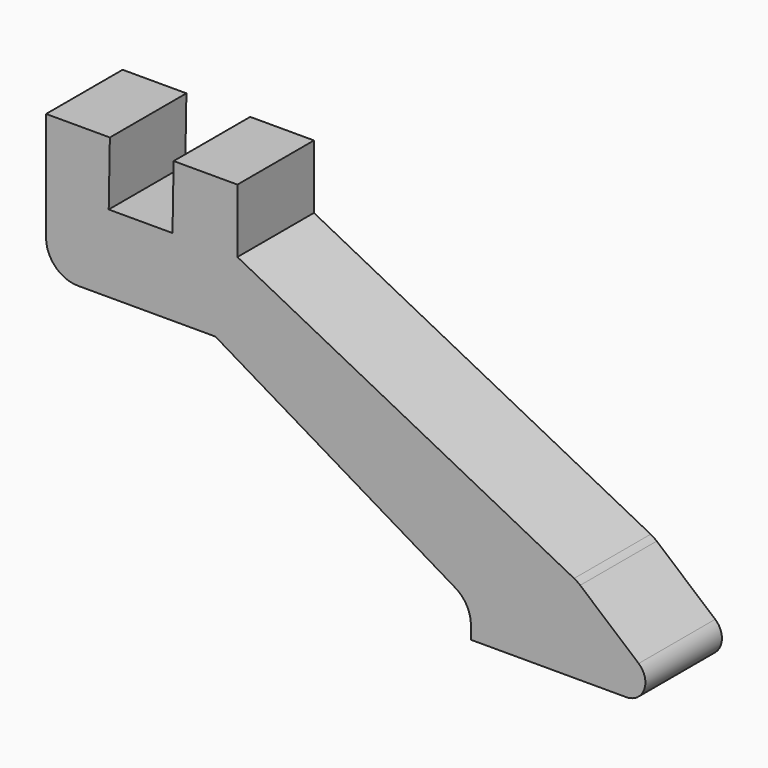
from build123d import *

# Parameters (mm, degrees)
F1_DEPTH = 15
F2_R     = 5


with BuildPart() as f1:
    # F0 (on Front) → F1 (new body)
    with BuildSketch(Plane.XZ):
        with BuildLine():
            Line((65.747503, -27.193502), (12.955731, 0))
            Line((12.955731, 0), (12.955731, 9.998409))
            Line((12.955731, 9.998409), (2.955731, 9.998409))
            Line((2.955731, 9.998409), (2.777357, 0))
            Line((2.777357, 0), (-7.222643, 0))
            Line((-7.222643, 0), (-7.044269, 9.998409))
            Line((-7.044269, 9.998409), (-17.044269, 9.998409))
            Line((-17.044269, 9.998409), (-17.044269, 0))
            Line((-17.044269, 0), (-17.044269, -12.098167))
            Line((-17.044269, -12.098167), (9.505874, -12.098167))
            Line((9.505874, -12.098167), (46.953158, -34.44976))
            ThreePointArc((46.953158, -34.44976), (48.861942, -36.287192), (49.563903, -38.841965))
            Line((49.563903, -38.841965), (49.563903, -40.925505))
            Line((49.563903, -40.925505), (73.922526, -40.925505))
            ThreePointArc((73.922526, -40.925505), (76.737769, -38.962041), (75.867925, -35.641776))
            Line((75.867925, -35.641776), (66.700202, -27.832236))
            ThreePointArc((66.700202, -27.832236), (66.242229, -27.48546), (65.747503, -27.193502))
        make_face()
    extrude(amount=F1_DEPTH)

    # F2
    f2_edges = [f1.edges().sort_by_distance(p)[0] for p in [
        (-17.044269, -7.5, -12.098167),
    ]]
    fillet(f2_edges, radius=F2_R)


solid = f1.part
